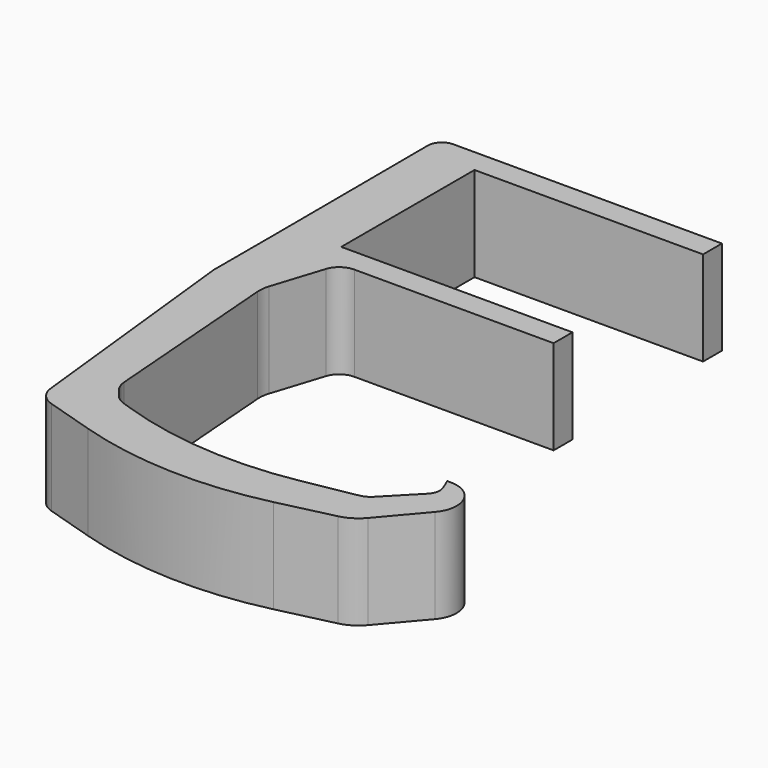
from build123d import *

# Parameters (mm, degrees)
PAD_DEPTH    = 20
FILLET_R     = 77
CHAMFER_SIZE = 3
FILLET001_R  = 3
FILLET002_R  = 4
FILLET003_R  = 8
FILLET004_R  = 6
FILLET005_R  = 5
FILLET006_R  = 5
FILLET007_R  = 4
FILLET008_R  = 7
FILLET009_R  = 3


with BuildPart() as part:
    # Sketch → Pad (new body)
    with BuildSketch(Plane.XY):
        Polygon((0, 0), (59.950146, 0), (59.950146, -5), (11.518525, -5), (11.518525, -40.3), (60.519711, -40.3), (60.519711, -45.3), (15.353175, -45.3), (10.617641, -60.148293), (14.104488, -105.074165), (39.071716, -113.621506), (70.78685, -107.773331), (79.334183, -99.001053), (77.653412, -94.872163), (91.389916, -94.872163), (73.935867, -115.420944), (39.52158, -123.518425), (6.007014, -113.171646), (0.177902, -59.873554), (0.177902, -43.792206), align=None)
    extrude(amount=PAD_DEPTH)

    # Fillet
    fillet_edges = [part.edges().sort_by_distance(p)[0] for p in [
        (39.071716, -113.621506, 10),
        (39.52158, -123.518425, 10),
    ]]
    fillet(fillet_edges, radius=FILLET_R)

    # Chamfer
    chamfer_edges = [part.edges().sort_by_distance(p)[0] for p in [
        (14.104488, -105.074165, 10),
    ]]
    chamfer(chamfer_edges, length=CHAMFER_SIZE)

    # Fillet001
    fillet001_edges = [part.edges().sort_by_distance(p)[0] for p in [
        (79.334183, -99.001053, 10),
    ]]
    fillet(fillet001_edges, radius=FILLET001_R)

    # Fillet002
    fillet002_edges = [part.edges().sort_by_distance(p)[0] for p in [
        (70.78685, -107.773331, 10),
    ]]
    fillet(fillet002_edges, radius=FILLET002_R)

    # Fillet003
    fillet003_edges = [part.edges().sort_by_distance(p)[0] for p in [
        (73.935867, -115.420944, 10),
    ]]
    fillet(fillet003_edges, radius=FILLET003_R)

    # Fillet004
    fillet004_edges = [part.edges().sort_by_distance(p)[0] for p in [
        (91.389916, -94.872163, 10),
    ]]
    fillet(fillet004_edges, radius=FILLET004_R)

    # Fillet005
    fillet005_edges = [part.edges().sort_by_distance(p)[0] for p in [
        (6.007014, -113.171646, 10),
    ]]
    fillet(fillet005_edges, radius=FILLET005_R)

    # Fillet006
    fillet006_edges = [part.edges().sort_by_distance(p)[0] for p in [
        (13.872346, -102.08316, 10),
        (16.942774, -106.045831, 10),
    ]]
    fillet(fillet006_edges, radius=FILLET006_R)

    # Fillet007
    fillet007_edges = [part.edges().sort_by_distance(p)[0] for p in [
        (15.353175, -45.3, 10),
    ]]
    fillet(fillet007_edges, radius=FILLET007_R)

    # Fillet008
    fillet008_edges = [part.edges().sort_by_distance(p)[0] for p in [
        (10.617641, -60.148293, 10),
    ]]
    fillet(fillet008_edges, radius=FILLET008_R)

    # Fillet009
    fillet009_edges = [part.edges().sort_by_distance(p)[0] for p in [
        (0, 0, 10),
    ]]
    fillet(fillet009_edges, radius=FILLET009_R)


solid = part.part
